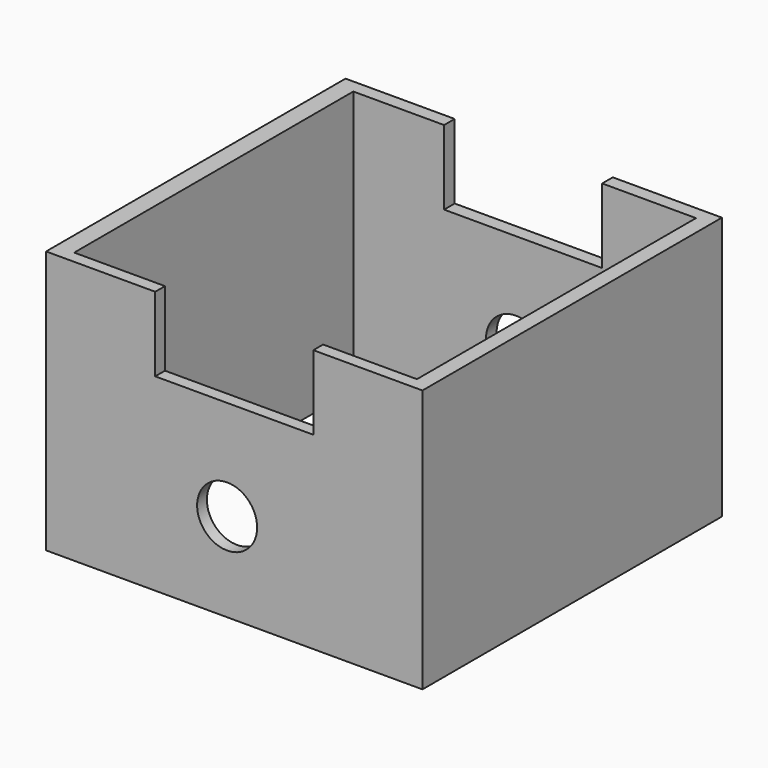
from build123d import *

# Parameters (mm, degrees)
F1_DEPTH = 50.8
F2_W     = 93.022012
F2_H     = 94.683118
F3_DEPTH = 114.3
F4_R     = 8.12477
F5_DEPTH = 228.6
F6_R     = 8.143617
F7_DEPTH = 152.4


with BuildPart() as f1:
    # F0 (on Front) → F1 (new body, symmetric)
    with BuildSketch(Plane.XZ):
        Polygon((23.393929, 13.422799), (-19.51801, 13.422799), (-19.51801, 33.632938), (-49.14109, 33.632938), (-49.14109, 13.422799), (-49.14109, -37.794676), (53.017005, -37.794676), (53.017005, 13.422799), (53.017005, 33.632938), (23.393929, 33.632938), align=None)
    extrude(amount=F1_DEPTH, both=True)

    # F2 (on Top) → F3 (cut, symmetric)
    with BuildSketch(Plane.XY):
        with Locations((2.353236, -0.14291)):
            Rectangle(F2_W, F2_H)
    extrude(amount=F3_DEPTH, both=True, mode=Mode.SUBTRACT)

    # F4 (on Front) → F5 (cut)
    with BuildSketch(Plane.XZ):
        with Locations((0, -15.092876)):
            Circle(F4_R)
    extrude(amount=-F5_DEPTH, mode=Mode.SUBTRACT)

    # F6 (on face) → F7 (cut)
    with BuildSketch(Plane.XZ.offset(50.8)):
        with Locations((0, -13.708619)):
            Circle(F6_R)
    extrude(amount=-F7_DEPTH, mode=Mode.SUBTRACT)


solid = f1.part
